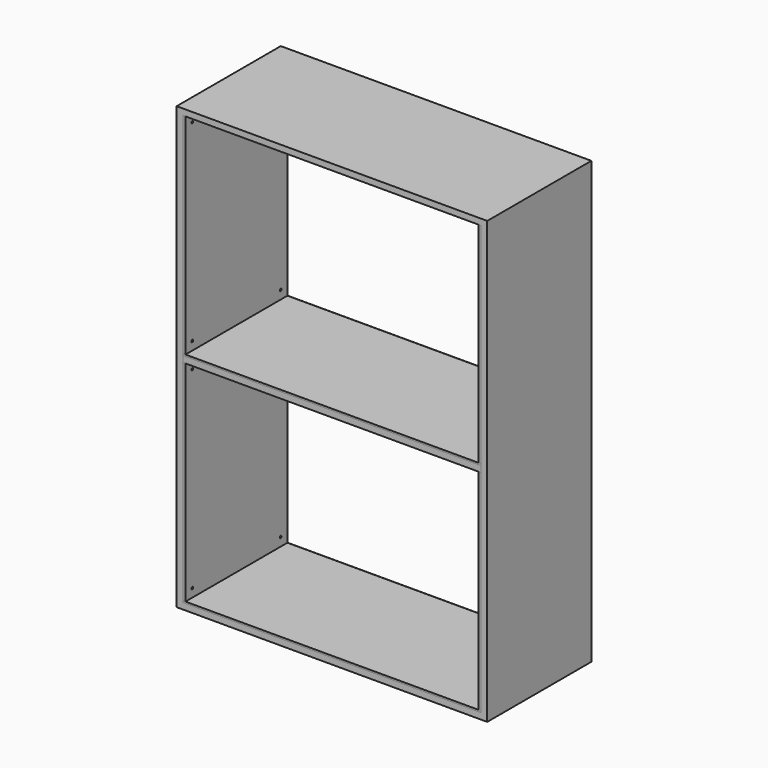
from build123d import *

# Parameters (mm, degrees)
F0_W      = 914
F0_H      = 1298
F0_W_2    = 878
F0_H_2    = 1262
F1_DEPTH  = 383
F2_W      = 383
F2_H      = 18
F3_DEPTH  = 878
F4_W      = 878
F4_H      = 375
F5_DEPTH  = 5
F6_W      = 375
F6_H      = 617
F7_DEPTH  = 8
F8_R      = 3.25
F9_DEPTH  = 25
F12_W     = 375
F12_H     = 617
F13_DEPTH = 8
F14_R     = 3.25
F15_DEPTH = 25


with BuildPart() as f1:
    # F0 (on Front) → F1 (new body)
    with BuildSketch(Plane.XZ):
        Rectangle(F0_W, F0_H)
        Rectangle(F0_W_2, F0_H_2, mode=Mode.SUBTRACT)
    extrude(amount=F1_DEPTH)


with BuildPart() as f3:
    # F2 (on face) → F3 (new body, through all)
    with BuildSketch(Plane.YZ.offset(-439)):
        with Locations((-191.5, 0)):
            Rectangle(F2_W, F2_H)
    extrude(amount=F3_DEPTH)


with BuildPart() as f5:
    # F4 (on face) → F5 (new body)
    with BuildSketch(Plane.XY.offset(9)):
        with Locations((0, -195.5)):
            Rectangle(F4_W, F4_H)
    extrude(amount=F5_DEPTH)


with BuildPart() as f7:
    # F6 (on face) → F7 (new body)
    with BuildSketch(Plane(origin=(439, 0, 0), x_dir=(0, -1, 0), z_dir=(-1, 0, 0))):
        with Locations((195.5, 322.5)):
            Rectangle(F6_W, F6_H)
    extrude(amount=F7_DEPTH)

    # F8 (on face) → F9 (cut)
    with BuildSketch(Plane(origin=(431, 0, 0), x_dir=(0, -1, 0), z_dir=(-1, 0, 0))):
        with Locations((358, 39)):
            Circle(F8_R)
        with Locations((358, 606)):
            Circle(F8_R)
        with Locations((33, 39)):
            Circle(F8_R)
        with Locations((33, 606)):
            Circle(F8_R)
    extrude(amount=-F9_DEPTH, mode=Mode.SUBTRACT)


with BuildPart() as f10_1:
    # F10: instance of F7
    add(f7.part.mirror(Plane.YZ))


with BuildPart() as f11_1:
    # F11: copy of F5
    add(f5.part.moved(Location((0, 0, -640))))


with BuildPart() as f13:
    # F12 (on face) → F13 (new body)
    with BuildSketch(Plane(origin=(439, 0, 0), x_dir=(0, -1, 0), z_dir=(-1, 0, 0))):
        with Locations((195.5, -317.5)):
            Rectangle(F12_W, F12_H)
    extrude(amount=F13_DEPTH)

    # F14 (on face) → F15 (cut)
    with BuildSketch(Plane(origin=(431, 0, 0), x_dir=(0, -1, 0), z_dir=(-1, 0, 0))):
        with Locations((358, -601)):
            Circle(F14_R)
        with Locations((358, -34)):
            Circle(F14_R)
        with Locations((33, -601)):
            Circle(F14_R)
        with Locations((33, -34)):
            Circle(F14_R)
    extrude(amount=-F15_DEPTH, mode=Mode.SUBTRACT)


with BuildPart() as f16_1:
    # F16: instance of F13
    add(f13.part.mirror(Plane.YZ))


solid = Compound([f1.part, f3.part, f5.part, f7.part, f10_1.part, f11_1.part, f13.part, f16_1.part])
